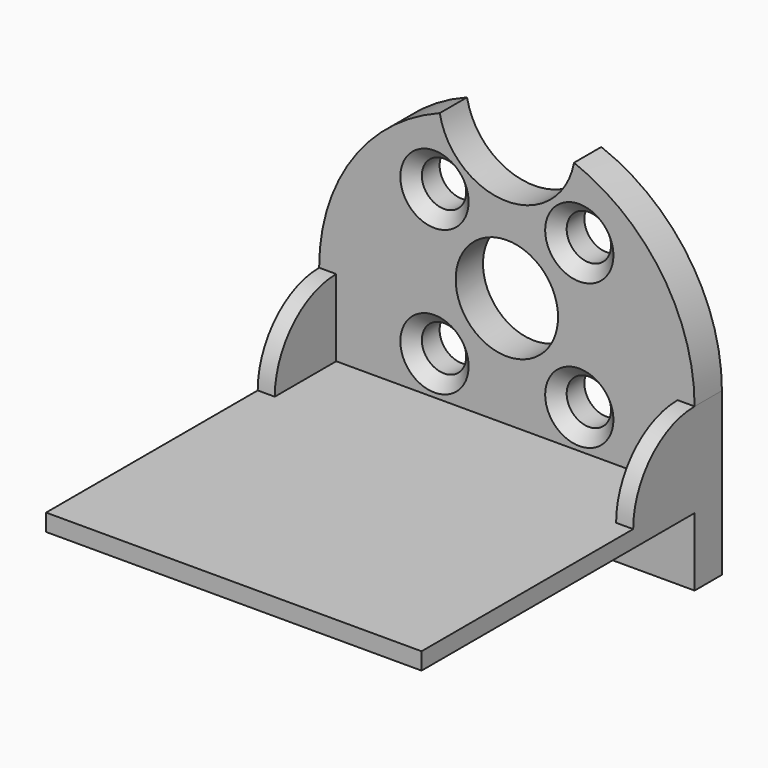
from build123d import *

# Parameters (mm, degrees)
F0_R           = 1.3
F0_R_2         = 3
F0_W           = 22
F0_H           = 4
F0_W_2         = 1
F0_H_2         = 4.5
F1_DEPTH       = 2
F2_DEPTH       = 20
F3_ANGLE       = 91
F4_D           = 2
F4_DEPTH       = 3
F4_CSINK_D     = 4
F4_CSINK_ANGLE = 90


with BuildPart() as f1:
    # F0 (on Front) → F1 (new body)
    with BuildSketch(Plane.XZ):
        with BuildLine():
            Line((10, 4.5), (11, 4.5))
            ThreePointArc((11, 4.5), (9.062743, 10.734316), (3.933329, 14.772727))
            ThreePointArc((3.933329, 14.772727), (0, 11.5), (-3.933329, 14.772727))
            ThreePointArc((-3.933329, 14.772727), (-9.062743, 10.734316), (-11, 4.5))
            Line((-11, 4.5), (-10, 4.5))
            Line((-10, 4.5), (-10, 0))
            Line((-10, 0), (10, 0))
            Line((10, 0), (10, 4.5))
        make_face()
        with Locations((-4.242641, 2.257359)):
            Circle(F0_R, mode=Mode.SUBTRACT)
        with Locations((4.242641, 2.257359)):
            Circle(F0_R, mode=Mode.SUBTRACT)
        with Locations((-4.242641, 10.742641)):
            Circle(F0_R, mode=Mode.SUBTRACT)
        with Locations((0, 6.5)):
            Circle(F0_R_2, mode=Mode.SUBTRACT)
        with Locations((4.242641, 10.742641)):
            Circle(F0_R, mode=Mode.SUBTRACT)
        with Locations((0, -3)):
            Rectangle(F0_W, F0_H)
        Polygon((-11, -1), (11, -1), (11, 0), (10, 0), (-10, 0), (-11, 0), align=None)
        with Locations((-10.5, 2.25)):
            Rectangle(F0_W_2, F0_H_2)
        with Locations((10.5, 2.25)):
            Rectangle(F0_W_2, F0_H_2)
    extrude(amount=-F1_DEPTH)



with BuildPart() as f2:
    # F0 (on Front) → F2 (new body)
    with BuildSketch(Plane.XZ):
        Polygon((-11, -1), (11, -1), (11, 0), (10, 0), (-10, 0), (-11, 0), align=None)
    extrude(amount=F2_DEPTH)


with BuildPart() as f1_1:
    add(f1.part)

    add(f2.part)  # F3 merges F2
    # F0 (on Front) → F3 (revolve)
    with BuildSketch(Plane.XZ):
        with Locations((-10.5, 2.25)):
            Rectangle(F0_W_2, F0_H_2)
        with Locations((10.5, 2.25)):
            Rectangle(F0_W_2, F0_H_2)
    revolve(axis=Axis((0, 0, 0), (1, 0, 0)), revolution_arc=F3_ANGLE)

    # F4
    with Locations(Plane.XZ):
        with Locations((-4.242641, 10.742641), (-4.242641, 2.257359), (4.242641, 2.257359), (4.242641, 10.742641)):
            CounterSinkHole(F4_D / 2, F4_CSINK_D / 2, depth=F4_DEPTH, counter_sink_angle=F4_CSINK_ANGLE)


solid = f1_1.part
